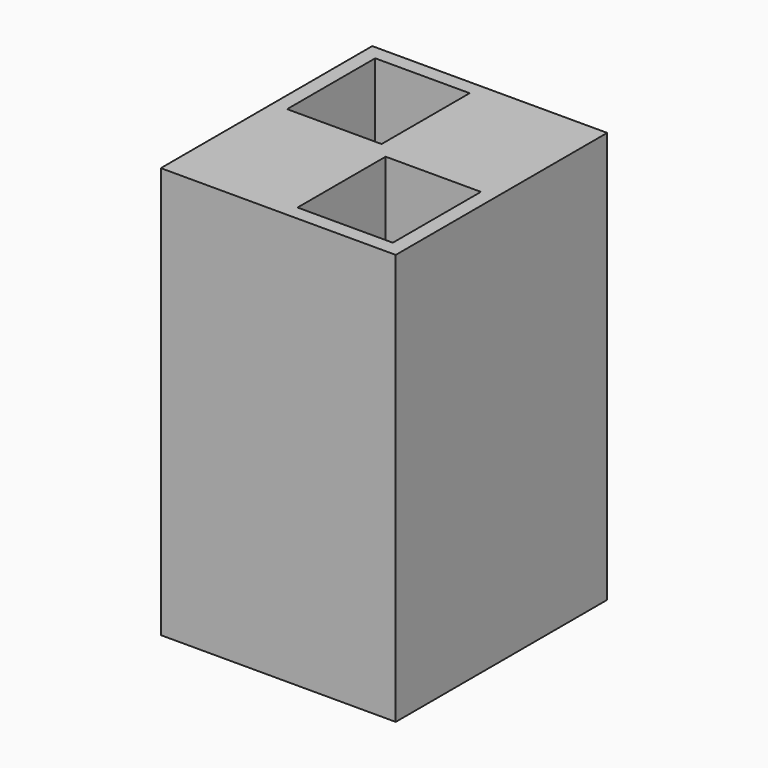
from build123d import *

# Parameters (mm, degrees)
F0_W     = 50.8
F0_H     = 57.15
F1_DEPTH = 88.9
F3_W     = 20.430309
F3_H     = 23.8125
F5_DEPTH = 84.836
F4_W     = 20.599569
F4_H     = 23.8125
F6_DEPTH = 82.804


with BuildPart() as f1:
    # F0 (on Top) → F1 (new body)
    with BuildSketch(Plane.XY):
        Rectangle(F0_W, F0_H)
    extrude(amount=F1_DEPTH)

    # F3 (on face) → F5 (cut)
    with BuildSketch(Plane.XY.offset(88.9)):
        with Locations((-12.009845, 13.49375)):
            Rectangle(F3_W, F3_H)
    extrude(amount=-F5_DEPTH, mode=Mode.SUBTRACT)

    # F4 (on face) → F6 (cut)
    with BuildSketch(Plane.XY.offset(88.9)):
        with Locations((11.925215, -13.49375)):
            Rectangle(F4_W, F4_H)
    extrude(amount=-F6_DEPTH, mode=Mode.SUBTRACT)


solid = f1.part
